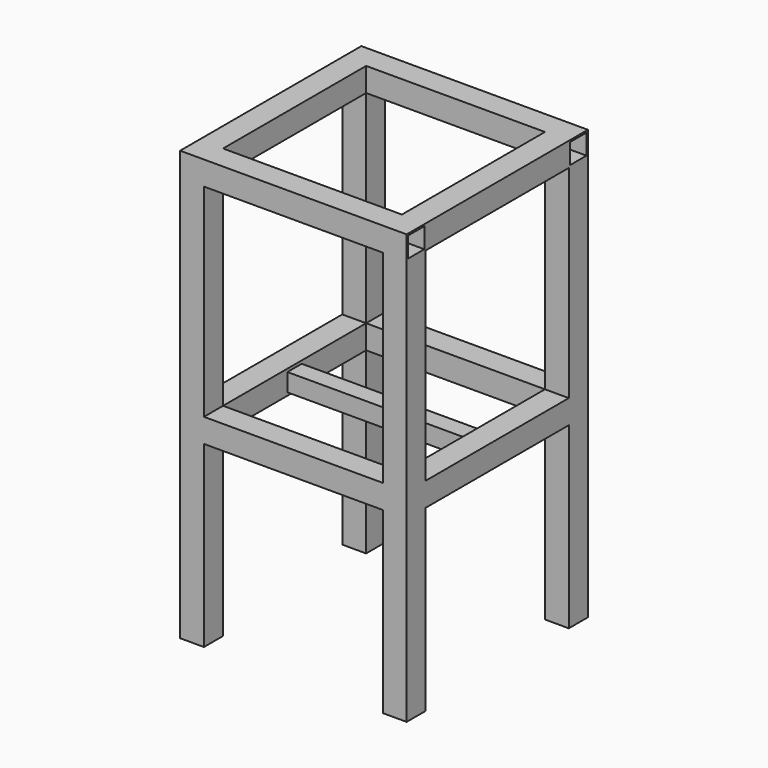
from build123d import *

# Parameters (mm, degrees)
F0_W      = 40
F0_H      = 40
F0_W_2    = 34
F0_H_2    = 34
F1_DEPTH  = 380
F2_W      = 40
F2_H      = 40
F2_W_2    = 34
F2_H_2    = 34
F3_DEPTH  = 300
F4_W      = 40
F4_H      = 40
F4_W_2    = 34
F4_H_2    = 34
F5_DEPTH  = 380
F6_W      = 40
F6_H      = 40
F6_W_2    = 34
F6_H_2    = 34
F7_DEPTH  = 380
F8_W      = 40
F8_H      = 40
F8_W_2    = 34
F8_H_2    = 34
F9_DEPTH  = 300
F10_W     = 40
F10_H     = 40
F10_W_2   = 34
F10_H_2   = 34
F11_DEPTH = 300
F12_W     = 40
F12_H     = 40
F12_W_2   = 34
F12_H_2   = 34
F13_DEPTH = 300
F14_W     = 40
F14_H     = 40
F14_W_2   = 34
F14_H_2   = 34
F15_DEPTH = 300
F16_W     = 40
F16_H     = 40
F16_W_2   = 34
F16_H_2   = 34
F17_DEPTH = 380
F18_W     = 40
F18_H     = 40
F18_W_2   = 34
F18_H_2   = 33.7004394531
F19_DEPTH = 380
F20_W     = 40
F20_H     = 40
F20_W_2   = 34
F20_H_2   = 34
F21_DEPTH = 380
F22_DEPTH = 25
F23_W     = 40
F23_H     = 40
F23_W_2   = 34
F23_H_2   = 34
F24_DEPTH = 300
F25_W     = 40
F25_H     = 40
F25_W_2   = 34
F25_H_2   = 34
F26_DEPTH = 300
F27_W     = 40
F27_H     = 40
F27_W_2   = 34
F27_H_2   = 34
F28_DEPTH = 300
F29_W     = 40
F29_H     = 40
F29_W_2   = 34
F29_H_2   = 33.7004394531
F31_DEPTH = 300
F32_W     = 40
F32_H     = 40
F32_W_2   = 34
F32_H_2   = 34
F33_DEPTH = 300
F34_W     = 24
F34_H     = 24
F35_DEPTH = 300


with BuildPart() as f1:
    # F0 (on Top) → F1 (new body)
    with BuildSketch(Plane.XY):
        with Locations((-20, -20)):
            Rectangle(F0_W, F0_H)
        with Locations((-20, -20)):
            Rectangle(F0_W_2, F0_H_2, mode=Mode.SUBTRACT)
    extrude(amount=F1_DEPTH)

    # F2 (on face) → F3 (join)
    with BuildSketch(Plane.YZ):
        with Locations((-20, 20)):
            Rectangle(F2_W, F2_H)
        with Locations((-20, 20)):
            Rectangle(F2_W_2, F2_H_2, mode=Mode.SUBTRACT)
    extrude(amount=F3_DEPTH)

    # F4 (on face) → F5 (join)
    with BuildSketch(Plane(origin=(0, 0, 0), x_dir=(1, 0, 0), z_dir=(0, 0, -1))):
        with Locations((320, 20)):
            Rectangle(F4_W, F4_H)
        with Locations((320, 20)):
            Rectangle(F4_W_2, F4_H_2, mode=Mode.SUBTRACT)
    extrude(amount=-F5_DEPTH)

    # F6 (on face) → F7 (join)
    with BuildSketch(Plane(origin=(-40, 0, 0), x_dir=(0, -1, 0), z_dir=(-1, 0, 0))):
        with Locations((20, 400)):
            Rectangle(F6_W, F6_H)
        with Locations((20, 400)):
            Rectangle(F6_W_2, F6_H_2, mode=Mode.SUBTRACT)
        with Locations((20, 400)):
            Rectangle(F6_W, F6_H)
        with Locations((20, 400)):
            Rectangle(F6_W_2, F6_H_2, mode=Mode.SUBTRACT)
    extrude(amount=-F7_DEPTH)

    # F8 (on face) → F9 (join)
    with BuildSketch(Plane(origin=(0, 0, 0), x_dir=(-1, 0, 0), z_dir=(0, 1, 0))):
        with Locations((20, 20)):
            Rectangle(F8_W, F8_H)
        with Locations((20, 20)):
            Rectangle(F8_W_2, F8_H_2, mode=Mode.SUBTRACT)
    extrude(amount=F9_DEPTH)

    # F10 (on face) → F11 (join)
    with BuildSketch(Plane(origin=(0, 0, 0), x_dir=(-1, 0, 0), z_dir=(0, 1, 0))):
        with Locations((-320, 20)):
            Rectangle(F10_W, F10_H)
        with Locations((-320, 20)):
            Rectangle(F10_W_2, F10_H_2, mode=Mode.SUBTRACT)
    extrude(amount=F11_DEPTH)

    # F12 (on face) → F13 (join)
    with BuildSketch(Plane(origin=(0, 0, 0), x_dir=(-1, 0, 0), z_dir=(0, 1, 0))):
        with Locations((-320, 400)):
            Rectangle(F12_W, F12_H)
        with Locations((-320, 400)):
            Rectangle(F12_W_2, F12_H_2, mode=Mode.SUBTRACT)
    extrude(amount=F13_DEPTH)

    # F14 (on face) → F15 (join)
    with BuildSketch(Plane(origin=(0, 0, 0), x_dir=(-1, 0, 0), z_dir=(0, 1, 0))):
        with Locations((20, 400)):
            Rectangle(F14_W, F14_H)
        with Locations((20, 400)):
            Rectangle(F14_W_2, F14_H_2, mode=Mode.SUBTRACT)
    extrude(amount=F15_DEPTH)

    # F16 (on face) → F17 (join)
    with BuildSketch(Plane(origin=(-40, 0, 0), x_dir=(0, -1, 0), z_dir=(-1, 0, 0))):
        with Locations((-320, 400)):
            Rectangle(F16_W, F16_H)
        with Locations((-320, 400)):
            Rectangle(F16_W_2, F16_H_2, mode=Mode.SUBTRACT)
    extrude(amount=-F17_DEPTH)

    # F18 (on face) → F19 (join)
    with BuildSketch(Plane(origin=(0, 0, 380), x_dir=(1, 0, 0), z_dir=(0, 0, -1))):
        with Locations((320, -320)):
            Rectangle(F18_W, F18_H)
        with Locations((320, -319.8502197266)):
            Rectangle(F18_W_2, F18_H_2, mode=Mode.SUBTRACT)
    extrude(amount=F19_DEPTH)

    # F20 (on face) → F21 (join)
    with BuildSketch(Plane(origin=(0, 0, 380), x_dir=(1, 0, 0), z_dir=(0, 0, -1))):
        with Locations((-20, -320)):
            Rectangle(F20_W, F20_H)
        with Locations((-20, -320)):
            Rectangle(F20_W_2, F20_H_2, mode=Mode.SUBTRACT)
    extrude(amount=F21_DEPTH)

    # F20 (on face) → F22 (join)
    with BuildSketch(Plane(origin=(0, 0, 380), x_dir=(1, 0, 0), z_dir=(0, 0, -1))):
        with Locations((-20, -320)):
            Rectangle(F20_W, F20_H)
        with Locations((-20, -320)):
            Rectangle(F20_W_2, F20_H_2, mode=Mode.SUBTRACT)
    extrude(amount=F22_DEPTH)

    # F23 (on face) → F24 (join)
    with BuildSketch(Plane(origin=(300, 0, 0), x_dir=(0, -1, 0), z_dir=(-1, 0, 0))):
        with Locations((-320, 20)):
            Rectangle(F23_W, F23_H)
        with Locations((-320, 20)):
            Rectangle(F23_W_2, F23_H_2, mode=Mode.SUBTRACT)
    extrude(amount=F24_DEPTH)

    # F25 (on face) → F26 (join)
    with BuildSketch(Plane(origin=(0, 0, 0), x_dir=(1, 0, 0), z_dir=(0, 0, -1))):
        with Locations((-20, 20)):
            Rectangle(F25_W, F25_H)
        with Locations((-20, 20)):
            Rectangle(F25_W_2, F25_H_2, mode=Mode.SUBTRACT)
    extrude(amount=F26_DEPTH)

    # F27 (on face) → F28 (join)
    with BuildSketch(Plane(origin=(0, 0, 0), x_dir=(1, 0, 0), z_dir=(0, 0, -1))):
        with Locations((320, 20)):
            Rectangle(F27_W, F27_H)
        with Locations((320, 20)):
            Rectangle(F27_W_2, F27_H_2, mode=Mode.SUBTRACT)
    extrude(amount=F28_DEPTH)

    # F29 (on face) → F31 (join)
    with BuildSketch(Plane(origin=(0, 0, 0), x_dir=(1, 0, 0), z_dir=(0, 0, -1))):
        with Locations((320, -320)):
            Rectangle(F29_W, F29_H)
        with Locations((320, -319.8502197266)):
            Rectangle(F29_W_2, F29_H_2, mode=Mode.SUBTRACT)
    extrude(amount=F31_DEPTH)

    # F32 (on face) → F33 (join)
    with BuildSketch(Plane(origin=(0, 0, 0), x_dir=(1, 0, 0), z_dir=(0, 0, -1))):
        with Locations((-20, -320)):
            Rectangle(F32_W, F32_H)
        with Locations((-20, -320)):
            Rectangle(F32_W_2, F32_H_2, mode=Mode.SUBTRACT)
    extrude(amount=F33_DEPTH)

    # F34 (on face) → F35 (join)
    with BuildSketch(Plane.YZ):
        Polygon((165, 35), (150, 35), (135, 35), (135, 5), (165, 5), align=None)
        with Locations((150, 20)):
            Rectangle(F34_W, F34_H, mode=Mode.SUBTRACT)
    extrude(amount=F35_DEPTH)


solid = f1.part
